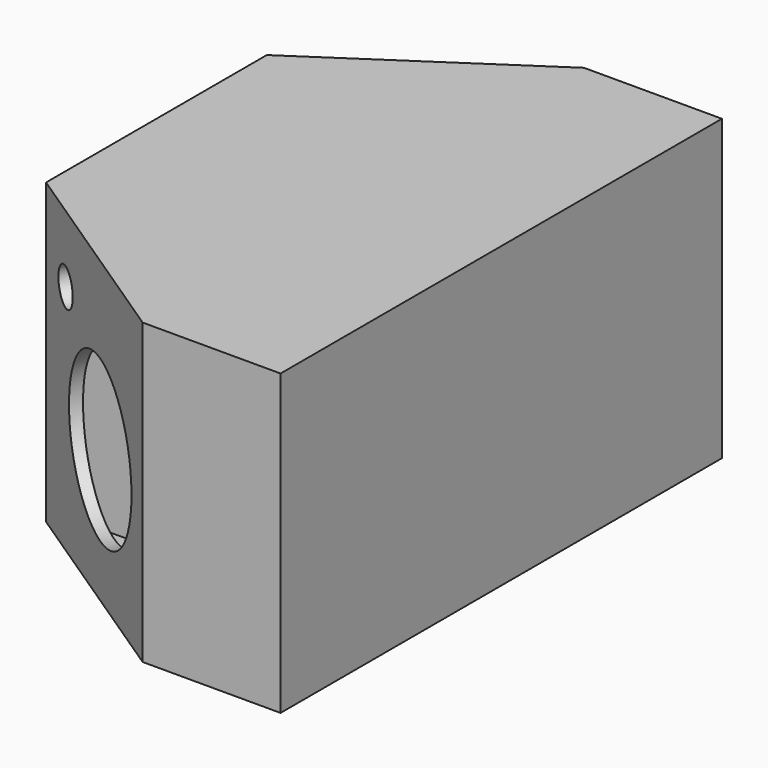
from build123d import *

# Parameters (mm, degrees)
F0_W      = 355.6000034809
F0_H      = 279.4000034809
F1_DEPTH  = 304.8
F2_R      = 104.14
F3_DEPTH  = 12.6999982595
F4_R      = 88.9
F4_R_2    = 20.32
F5_DEPTH  = 12.7
F6_R      = 88.9
F6_R_2    = 20.32
F7_DEPTH  = 12.7
F9_DEPTH  = 12.7
F11_DEPTH = 12.7


with BuildPart() as f1:
    # F0 (on Top) → F1 (new body)
    with BuildSketch(Plane.XY):
        Polygon((0, 304.8), (0, 0), (22.8952505992, 0), (368.3, 0), (381, 0), (381, 304.8), (368.3, 304.8), (22.8952505992, 304.8), align=None)
        with Locations((190.5, 152.4)):
            Rectangle(F0_W, F0_H, mode=Mode.SUBTRACT)
        Polygon((22.8952505992, 0), (0, 0), (228.6, -152.4), (381, -152.4), (381, 0), (368.3, 0), (368.3, -139.7), (232.4452505992, -139.7), align=None)
        Polygon((228.6, 457.2), (0, 304.8), (22.8952505992, 304.8), (232.4452505992, 444.5), (368.3, 444.5), (368.3, 304.8), (381, 304.8), (381, 457.2), align=None)
    extrude(amount=F1_DEPTH)

    # F2 (on face) → F3 (cut, through all)
    with BuildSketch(Plane(origin=(0, 0, 0), x_dir=(0, -1, 0), z_dir=(-1, 0, 0))):
        with Locations((-152.4, 152.4)):
            Circle(F2_R)
    extrude(amount=-F3_DEPTH, mode=Mode.SUBTRACT)

    # F4 (on face) → F5 (cut, through all)
    with BuildSketch(Plane(origin=(-140.6769230769, 211.0153846154, 0), x_dir=(-0.8320502943, -0.5547001962, 0), z_dir=(-0.5547001962, 0.8320502943, 0))):
        with Locations((-323.1656269998, 133.8491573491)):
            Circle(F4_R)
        with Locations((-224.529868778, 243.2757062301)):
            Circle(F4_R_2)
    extrude(amount=-F5_DEPTH, mode=Mode.SUBTRACT)

    # F6 (on face) → F7 (cut, through all)
    with BuildSketch(Plane(origin=(0, 0, 0), x_dir=(0.8320502943, -0.5547001962, 0), z_dir=(-0.5547001962, -0.8320502943, 0))):
        with Locations((154.0930071904, 133.8491573491)):
            Circle(F6_R)
        with Locations((55.4572489685, 243.2757062301)):
            Circle(F6_R_2)
    extrude(amount=-F7_DEPTH, mode=Mode.SUBTRACT)

    # F8 (on face) → F9 (join)
    with BuildSketch(Plane(origin=(0, 0, 0), x_dir=(1, 0, 0), z_dir=(0, 0, -1))):
        Polygon((381, -457.2), (381, 152.4), (228.6, 152.4), (0, 0), (0, -304.8), (228.6, -457.2), align=None)
    extrude(amount=F9_DEPTH)

    # F10 (on face) → F11 (join)
    with BuildSketch(Plane.XY.offset(304.8)):
        Polygon((381, -152.4), (381, 457.2), (228.6, 457.2), (0, 304.8), (0, 0), (228.6, -152.4), align=None)
    extrude(amount=F11_DEPTH)


solid = f1.part
